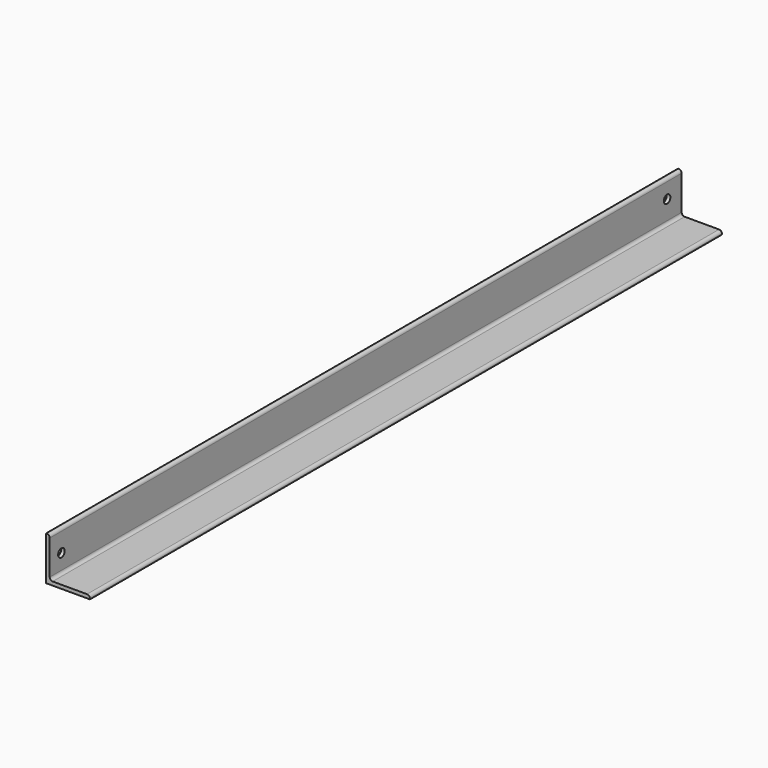
from build123d import *

# Parameters (mm, degrees)
F1_DEPTH = 685.8
F2_R     = 5.08
F3_R     = 7.14375
F4_DEPTH = 25.4


with BuildPart() as f1:
    # F0 (on Front) → F1 (new body, symmetric)
    with BuildSketch(Plane.XZ):
        Polygon((-31.75, -31.75), (-31.75, 38.1), (-38.1, 38.1), (-38.1, -38.1), (38.1, -38.1), (38.1, -31.75), align=None)
    extrude(amount=F1_DEPTH, both=True)

    # F2
    f2_edges = [f1.edges().sort_by_distance(p)[0] for p in [
        (-31.75, 0, -31.75),
        (-31.75, 0, 38.1),
        (38.1, 0, -31.75),
    ]]
    fillet(f2_edges, radius=F2_R)

    # F3 (on face) → F4 (cut)
    with BuildSketch(Plane(origin=(-38.1, 0, 0), x_dir=(0, -1, 0), z_dir=(-1, 0, 0))):
        with Locations((660.4, 0)):
            Circle(F3_R)
        with Locations((-654.05, 6.35)):
            Circle(F3_R)
    extrude(amount=-F4_DEPTH, mode=Mode.SUBTRACT)


solid = f1.part
